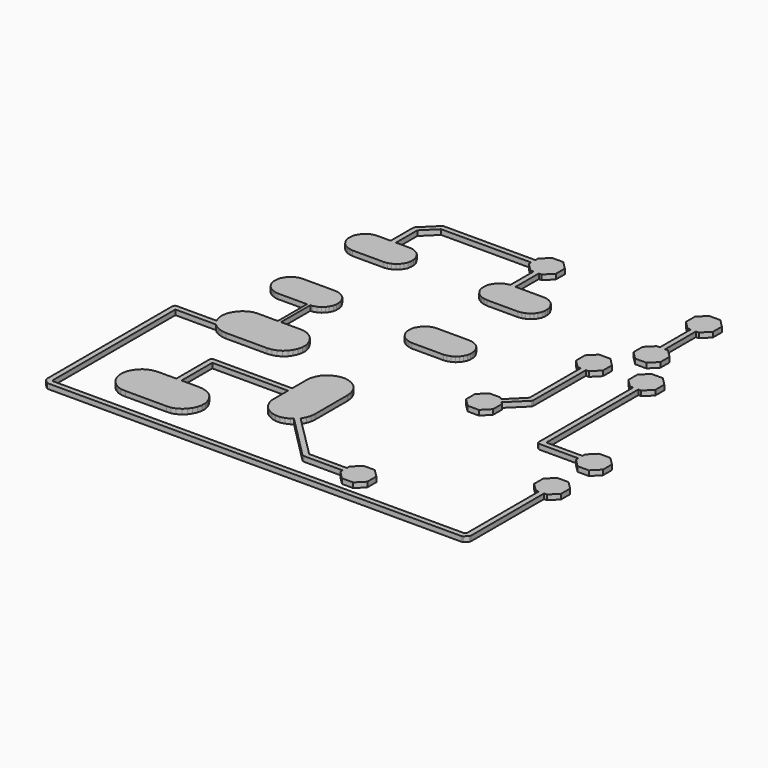
from build123d import *

# Parameters (mm, degrees)
F1_DEPTH = 0.2


with BuildPart() as f1:
    # F0 (on Top) → F1 (new body)
    with BuildSketch(Plane.XY):
        Polygon((2.61975, -0.81248), (2.53645, -0.72915), (3.20315, -0.0729), (3.21355, -0.05207), (3.22395, -0.0104), (3.23435, 2.59375), (3.34895, 2.59375), (3.66145, 2.90625), (3.66145, 3.35415), (3.34895, 3.66665), (2.90105, 3.66665), (2.58855, 3.35415), (2.58855, 2.90625), (2.90105, 2.59375), (3.02605, 2.59375), (3.02605, 0.0521), (2.39065, -0.58332), (2.30725, -0.49998), (1.85935, -0.49998), (1.54685, -0.81248), (1.54685, -1.2604), (1.85935, -1.5729), (2.30725, -1.5729), (2.61975, -1.2604), align=None)
        Polygon((4.06765, 6.76045), (4.06765, 5.22915), (3.94265, 5.22915), (3.63015, 4.91665), (3.63015, 4.46875), (3.94265, 4.15625), (4.39065, 4.15625), (4.70315, 4.46875), (4.70315, 4.91665), (4.39065, 5.22915), (4.27605, 5.22915), (4.27605, 6.76045), (4.39065, 6.76045), (4.70315, 7.07295), (4.70315, 7.52085), (4.39065, 7.83335), (3.94265, 7.83335), (3.63015, 7.52085), (3.63015, 7.07295), (3.94265, 6.76045), align=None)
        Polygon((-6.20315, 5.60415), (-6.7344, 5.60415), (-6.7344, 6.66665), (-6.20315, 7.18755), (-2.61982, 7.18755), (-2.61982, 7.07295), (-2.30732, 6.76045), (-2.18232, 6.76045), (-2.18232, 5.60415), (-2.25523, 5.59375), (-2.38023, 5.55215), (-2.49482, 5.48965), (-2.58857, 5.40625), (-2.66148, 5.29165), (-2.72398, 5.17715), (-2.74482, 5.05215), (-2.74482, 4.91665), (-2.72398, 4.79165), (-2.66148, 4.66665), (-2.58857, 4.56255), (-2.49482, 4.47915), (-2.38023, 4.41665), (-2.25523, 4.37505), (-2.11982, 4.35415), (-0.86982, 4.35415), (-0.74482, 4.37505), (-0.61982, 4.41665), (-0.50525, 4.47915), (-0.41145, 4.56255), (-0.33855, 4.66665), (-0.27605, 4.79165), (-0.25525, 4.91665), (-0.25525, 5.05215), (-0.27605, 5.17715), (-0.33855, 5.29165), (-0.41145, 5.40625), (-0.50525, 5.48965), (-0.61982, 5.55215), (-0.74482, 5.59375), (-0.86982, 5.60415), (-1.97398, 5.60415), (-1.97398, 6.76045), (-1.8594, 6.76045), (-1.5469, 7.07295), (-1.5469, 7.52085), (-1.8594, 7.83335), (-2.30732, 7.83335), (-2.61982, 7.52085), (-2.61982, 7.39585), (-6.28648, 7.39585), (-6.30732, 7.38545), (-6.91148, 6.79165), (-6.93232, 6.75005), (-6.94273, 6.70835), (-6.94273, 5.60415), (-7.46357, 5.60415), (-7.58857, 5.59375), (-7.71357, 5.55215), (-7.82815, 5.48965), (-7.9219, 5.40625), (-7.99482, 5.29165), (-8.05732, 5.17715), (-8.07815, 5.05215), (-8.07815, 4.91665), (-8.05732, 4.79165), (-7.99482, 4.66665), (-7.9219, 4.56255), (-7.82815, 4.47915), (-7.71357, 4.41665), (-7.58857, 4.37505), (-7.46357, 4.35415), (-6.20315, 4.35415), (-6.07815, 4.37505), (-5.95315, 4.41665), (-5.83857, 4.47915), (-5.74482, 4.56255), (-5.6719, 4.66665), (-5.6094, 4.79165), (-5.58857, 4.91665), (-5.58857, 5.05215), (-5.6094, 5.17715), (-5.6719, 5.29165), (-5.74482, 5.40625), (-5.83857, 5.48965), (-5.95315, 5.55215), (-6.07815, 5.59375), align=None)
        Polygon((-1.90107, -5.68748), (-1.80732, -5.62498), (-0.07815, -7.36457), (-0.03645, -7.3854), (0.00515, -7.39582), (1.54685, -7.39582), (1.54685, -7.5104), (1.85935, -7.8229), (2.30725, -7.8229), (2.61975, -7.5104), (2.61975, -7.06248), (2.30725, -6.74998), (1.85935, -6.74998), (1.54685, -7.06248), (1.54685, -7.18748), (0.04685, -7.18748), (-1.66148, -5.47915), (-1.65107, -5.46873), (-1.56773, -5.31248), (-1.51565, -5.15623), (-1.49482, -4.97915), (-1.49482, -3.34373), (-1.51565, -3.16665), (-1.56773, -3.0104), (-1.65107, -2.85415), (-1.76565, -2.72915), (-1.90107, -2.6354), (-2.05732, -2.56248), (-2.22398, -2.52082), (-2.40107, -2.52082), (-2.56773, -2.56248), (-2.72398, -2.6354), (-2.8594, -2.72915), (-2.97398, -2.85415), (-3.05732, -3.0104), (-3.11982, -3.16665), (-3.13023, -3.34373), (-3.13023, -4.06248), (-6.28648, -4.06248), (-6.32815, -4.08332), (-6.34898, -4.12498), (-6.34898, -5.80207), (-7.06773, -5.80207), (-7.24482, -5.8229), (-7.40107, -5.87498), (-7.55732, -5.95832), (-7.68232, -6.0729), (-7.77607, -6.20832), (-7.84898, -6.36457), (-7.89065, -6.53123), (-7.89065, -6.70832), (-7.84898, -6.87498), (-7.77607, -7.03123), (-7.68232, -7.16665), (-7.55732, -7.28123), (-7.40107, -7.37498), (-7.24482, -7.42707), (-7.06773, -7.43748), (-5.43232, -7.43748), (-5.25523, -7.42707), (-5.09898, -7.37498), (-4.94273, -7.28123), (-4.81773, -7.16665), (-4.72398, -7.03123), (-4.65107, -6.87498), (-4.6094, -6.70832), (-4.6094, -6.53123), (-4.65107, -6.36457), (-4.72398, -6.20832), (-4.81773, -6.0729), (-4.94273, -5.95832), (-5.09898, -5.87498), (-5.25523, -5.8229), (-5.43232, -5.80207), (-6.14065, -5.80207), (-6.14065, -4.27082), (-3.13023, -4.27082), (-3.13023, -4.97915), (-3.11982, -5.15623), (-3.05732, -5.31248), (-2.97398, -5.46873), (-2.8594, -5.59373), (-2.72398, -5.68748), (-2.56773, -5.7604), (-2.40107, -5.80207), (-2.22398, -5.80207), (-2.05732, -5.7604), align=None)
        Polygon((-2.11982, 0.64585), (-0.86982, 0.64585), (-0.74482, 0.66665), (-0.61982, 0.70835), (-0.50525, 0.77085), (-0.41145, 0.85415), (-0.33855, 0.95835), (-0.27605, 1.08335), (-0.25525, 1.20835), (-0.25525, 1.34375), (-0.27605, 1.46875), (-0.33855, 1.58335), (-0.41145, 1.69795), (-0.50525, 1.78125), (-0.61982, 1.84375), (-0.74482, 1.88545), (-0.86982, 1.89585), (-2.11982, 1.89585), (-2.25523, 1.88545), (-2.38023, 1.84375), (-2.49482, 1.78125), (-2.58857, 1.69795), (-2.66148, 1.58335), (-2.72398, 1.46875), (-2.74482, 1.34375), (-2.74482, 1.20835), (-2.72398, 1.08335), (-2.66148, 0.95835), (-2.58857, 0.85415), (-2.49482, 0.77085), (-2.38023, 0.70835), (-2.25523, 0.66665), align=None)
        Polygon((4.98435, 2.59375), (5.10935, 2.59375), (5.10935, -2.11457), (5.13015, -2.15623), (5.17185, -2.17707), (5.21355, -2.18748), (6.75515, -2.18748), (6.75515, -2.30207), (7.06765, -2.61457), (7.51565, -2.61457), (7.82815, -2.30207), (7.82815, -1.85415), (7.51565, -1.54165), (7.06765, -1.54165), (6.75515, -1.85415), (6.75515, -1.97915), (5.31765, -1.97915), (5.31765, 2.59375), (5.43225, 2.59375), (5.74475, 2.90625), (5.74475, 3.35415), (5.43225, 3.66665), (4.98435, 3.66665), (4.67185, 3.35415), (4.67185, 2.90625), align=None)
        Polygon((-5.43232, -0.80207), (-6.18232, -0.80207), (-6.18232, 0.65625), (-6.07815, 0.66665), (-5.95315, 0.70835), (-5.83857, 0.77085), (-5.74482, 0.85415), (-5.6719, 0.95835), (-5.6094, 1.08335), (-5.58857, 1.20835), (-5.58857, 1.34375), (-5.6094, 1.46875), (-5.6719, 1.58335), (-5.74482, 1.69795), (-5.83857, 1.78125), (-5.95315, 1.84375), (-6.07815, 1.88545), (-6.20315, 1.89585), (-7.46357, 1.89585), (-7.58857, 1.88545), (-7.71357, 1.84375), (-7.82815, 1.78125), (-7.9219, 1.69795), (-7.99482, 1.58335), (-8.05732, 1.46875), (-8.07815, 1.34375), (-8.07815, 1.20835), (-8.05732, 1.08335), (-7.99482, 0.95835), (-7.9219, 0.85415), (-7.82815, 0.77085), (-7.71357, 0.70835), (-7.58857, 0.66665), (-7.46357, 0.64585), (-6.30732, 0.64585), (-6.30732, -0.80207), (-7.06773, -0.80207), (-7.24482, -0.81248), (-7.40107, -0.86457), (-7.55732, -0.95832), (-7.68232, -1.0729), (-7.77607, -1.20832), (-7.84898, -1.36457), (-7.89065, -1.53123), (-7.89065, -1.70832), (-7.84898, -1.87498), (-7.80732, -1.97915), (-9.41148, -1.97915), (-9.45315, -1.99998), (-9.47398, -2.04165), (-9.4844, -2.08332), (-9.4844, -8.33332), (-9.47398, -8.36457), (-9.46357, -8.3854), (-9.32815, -8.520817), (-9.30732, -8.531233), (-9.27607, -8.54165), (7.19265, -8.54165), (7.22395, -8.531233), (7.24475, -8.520817), (7.38015, -8.3854), (7.39065, -8.36457), (7.40105, -8.33332), (7.40105, -4.6979), (7.51565, -4.6979), (7.82815, -4.3854), (7.82815, -3.93748), (7.51565, -3.62498), (7.06765, -3.62498), (6.75515, -3.93748), (6.75515, -4.3854), (7.06765, -4.6979), (7.19265, -4.6979), (7.19265, -8.28123), (7.14065, -8.33332), (-9.22398, -8.33332), (-9.27607, -8.28123), (-9.27607, -2.18748), (-7.66148, -2.18748), (-7.55732, -2.28123), (-7.40107, -2.36457), (-7.24482, -2.41665), (-7.06773, -2.43748), (-5.43232, -2.43748), (-5.25523, -2.41665), (-5.09898, -2.36457), (-4.94273, -2.28123), (-4.81773, -2.16665), (-4.72398, -2.03123), (-4.65107, -1.87498), (-4.6094, -1.70832), (-4.6094, -1.53123), (-4.65107, -1.36457), (-4.72398, -1.20832), (-4.81773, -1.0729), (-4.94273, -0.95832), (-5.09898, -0.86457), (-5.25523, -0.81248), align=None)
    extrude(amount=F1_DEPTH)


solid = f1.part
